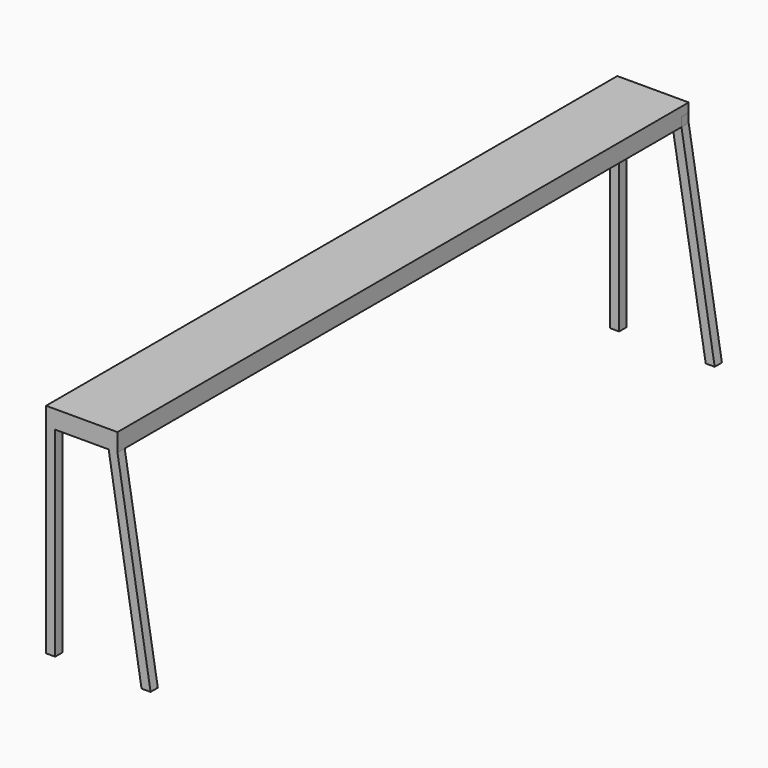
from build123d import *

# Parameters (mm, degrees)
F0_W     = 19
F0_H     = 420
F1_DEPTH = 19
F0_W_2   = 150
F0_H_2   = 19
F2_DEPTH = 1500
F4_W     = 19
F4_H     = 19
F5_DEPTH = 1462
F7_W     = 19
F7_H     = 420.6086155772
F8_DEPTH = 19


with BuildPart() as f1:
    # F0 (on Front) → F1 (new body)
    with BuildSketch(Plane.XZ):
        Polygon((131, 322.2475617528), (-19, 322.2475617528), (-19, 303.2475617528), (0, 303.2475617528), (112.4515682459, 303.2475617528), (131, 303.2475617528), align=None)
        with Locations((-9.5, 93.2475617528)):
            Rectangle(F0_W, F0_H)
        Polygon((200.5219459534, -116.7524382472), (131, 303.2475617528), (112.4515682459, 303.2475617528), (181.5219459534, -116.7524382472), align=None)
    extrude(amount=-F1_DEPTH)

    # F0 (on Front) → F2 (join)
    with BuildSketch(Plane.XZ):
        with Locations((56, 331.7475617528)):
            Rectangle(F0_W_2, F0_H_2)
    extrude(amount=-F2_DEPTH)

    # F4 (on offset) → F5 (join)
    with BuildSketch(Plane(origin=(0, 19, 0), x_dir=(-1, 0, 0), z_dir=(0, 1, 0))):
        with Locations((-121.5, 312.7475617528)):
            Rectangle(F4_W, F4_H)
        with Locations((9.5, 312.7475617528)):
            Rectangle(F4_W, F4_H)
    extrude(amount=F5_DEPTH)


with BuildPart() as f8:
    # F7 (on offset) → F8 (new body)
    with BuildSketch(Plane(origin=(0, 1500, 0), x_dir=(-1, 0, 0), z_dir=(0, 1, 0))):
        Polygon((19, 322.2475617528), (-131, 322.2475617528), (-131, 303.2475617528), (-111.5736439824, 303.2475617528), (0, 303.2475617528), (19, 303.2475617528), align=None)
        Polygon((-111.5736439824, 303.2475617528), (-131, 303.2475617528), (-200.8045464754, -117.3610538244), (-182.0190995932, -117.3610538244), align=None)
        with Locations((9.5, 92.9432539642)):
            Rectangle(F7_W, F7_H)
    extrude(amount=-F8_DEPTH)


solid = Compound([f1.part, f8.part])
